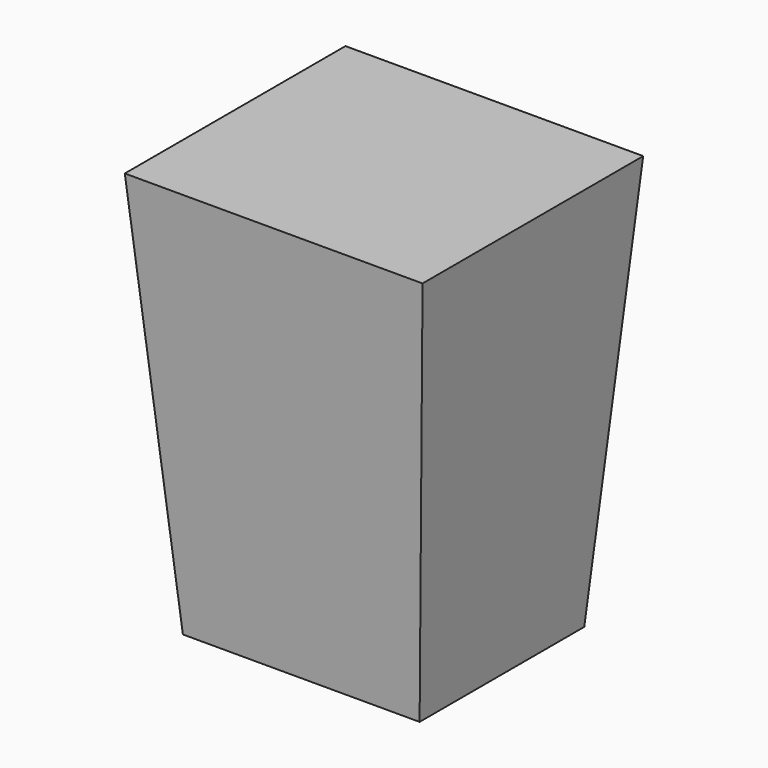
from build123d import *

# Parameters (mm, degrees)
F1_W = 57.7159
F1_H = 50.179748
F2_W = 72.591334
F2_H = 67.242332


with BuildPart() as f3:
    # F1 (on Top) → F3 section 0
    with BuildSketch(Plane.XY):
        with Locations((-0.06865, -0.041942)):
            Rectangle(F1_W, F1_H)
    # F2 (on offset) → F3 section 1
    with BuildSketch(Plane.XY.offset(100)):
        Rectangle(F2_W, F2_H)
    loft()


solid = f3.part
